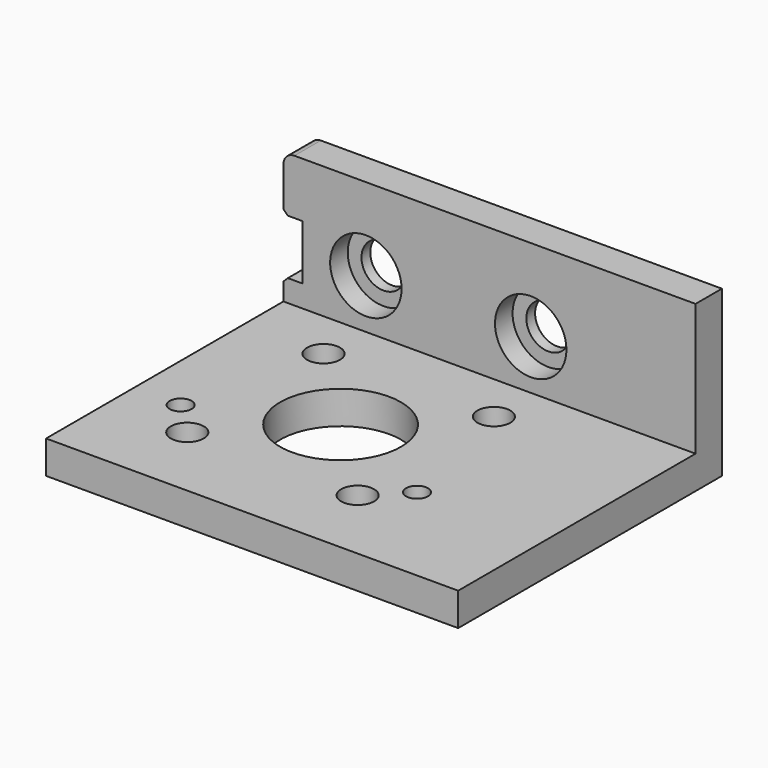
from build123d import *

# Parameters (mm, degrees)
F0_W           = 75
F0_H           = 60
F1_DEPTH       = 6
F2_W           = 75
F2_H           = 6
F3_DEPTH       = 24
F5_D           = 3
F5_CBORE_D     = 6
F5_CBORE_DEPTH = 3.5
F4_R           = 11
F6_DEPTH       = 6.001
F4_R_2         = 2
F7_DEPTH       = 6.001
F9_D           = 8
F9_CBORE_D     = 13
F9_CBORE_DEPTH = 4
F10_W          = 3.5
F10_H          = 10
F11_DEPTH      = 60.001
F12_SIZE       = 0.8
F13_R          = 2


with BuildPart() as f1:
    # F0 (on Top) → F1 (new body)
    with BuildSketch(Plane.XY):
        Rectangle(F0_W, F0_H)
    extrude(amount=F1_DEPTH)

    # F2 (on face) → F3 (join)
    with BuildSketch(Plane.XY.offset(6)):
        with Locations((0, 27)):
            Rectangle(F2_W, F2_H)
    extrude(amount=F3_DEPTH)

    # F5 (through all)
    with Locations(Plane.XY.offset(6)):
        with Locations((-23, 15), (8, 15), (8, -16), (-23, -16)):
            CounterBoreHole(F5_D / 2, F5_CBORE_D / 2, F5_CBORE_DEPTH)

    # F4 (on face) → F6 (cut, through all)
    with BuildSketch(Plane.XY.offset(6)):
        with Locations((-7.5, -0.5)):
            Circle(F4_R)
    extrude(amount=-F6_DEPTH, mode=Mode.SUBTRACT)

    # F4 (on face) → F7 (cut, through all)
    with BuildSketch(Plane.XY.offset(6)):
        with Locations((-29, -10)):
            Circle(F4_R_2)
        with Locations((14, -10)):
            Circle(F4_R_2)
    extrude(amount=-F7_DEPTH, mode=Mode.SUBTRACT)

    # F9 (through all)
    with Locations(Plane.XZ.offset(-24)):
        with Locations((-22.5, 15), (7.5, 15)):
            CounterBoreHole(F9_D / 2, F9_CBORE_D / 2, F9_CBORE_DEPTH)

    # F10 (on face) → F11 (cut, through all)
    with BuildSketch(Plane(origin=(0, 30, 0), x_dir=(-1, 0, 0), z_dir=(0, 1, 0))):
        with Locations((35.75, 15)):
            Rectangle(F10_W, F10_H)
    extrude(amount=-F11_DEPTH, mode=Mode.SUBTRACT)

    # F12
    f12_edges = [f1.edges().sort_by_distance(p)[0] for p in [
        (-37.5, 27, 20),
        (-37.5, 27, 10),
    ]]
    chamfer(f12_edges, length=F12_SIZE)

    # F13
    f13_edges = [f1.edges().sort_by_distance(p)[0] for p in [
        (-37.5, 27, 30),
    ]]
    fillet(f13_edges, radius=F13_R)


solid = f1.part
